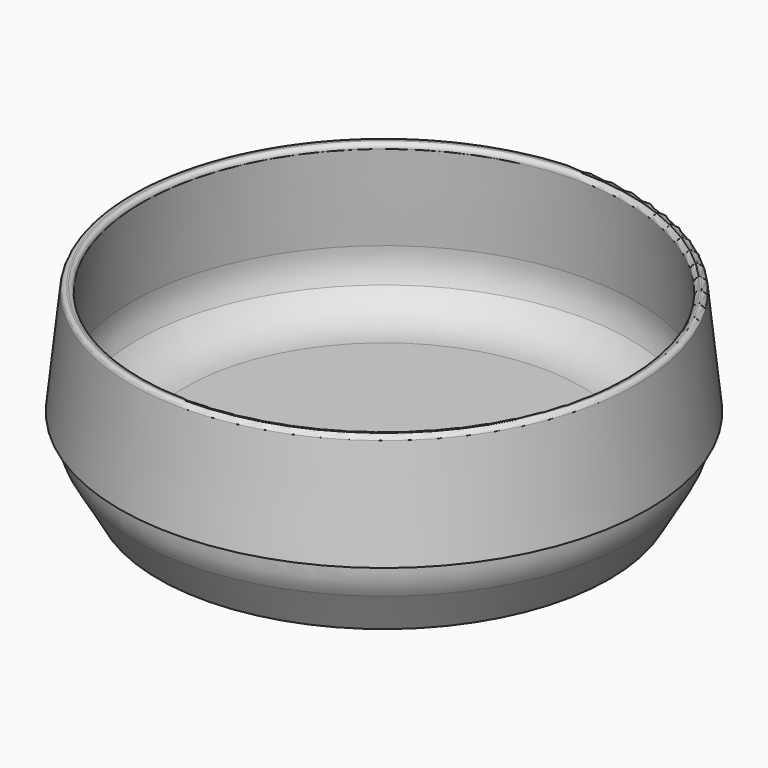
from build123d import *


with BuildPart() as f1:
    # F0 (on Front) → F1 (revolve)
    with BuildSketch(Plane.XZ):
        with BuildLine():
            Line((0, 9), (0, 6))
            Line((0, 6), (48.0762757361, 6))
            ThreePointArc((48.0762757361, 6), (54.1011105238, 4.8580394811), (59.2901725958, 1.5905721347))
            Line((59.2901725958, 1.5905721347), (61, 0))
            Line((61, 0), (64, 0))
            Line((64, 0), (70.7942286341, 11.7679491924))
            ThreePointArc((70.7942286341, 11.7679491924), (72.4389993416, 15.7387769415), (73, 20))
            Line((73, 20), (73, 21))
            Line((73, 21), (75, 21))
            Line((75, 21), (71.8251035914, 51.207121536))
            ThreePointArc((71.8251035914, 51.207121536), (71.3503416358, 52.0815242837), (70.3963381252, 52.3641129978))
            Line((70.3963381252, 52.3641129978), (69.998529367, 52.3223016124))
            ThreePointArc((69.998529367, 52.3223016124), (69.1241266194, 51.8475396568), (68.8415379053, 50.8935361462))
            Line((68.8415379053, 50.8935361462), (71.5285291448, 25.3285222078))
            ThreePointArc((71.5285291448, 25.3285222078), (71.3618845524, 20.7107973329), (69.9186394963, 16.3212418715))
            ThreePointArc((69.9186394963, 16.3212418715), (63.9897978344, 10.9452240093), (56.2264973081, 9))
            Line((56.2264973081, 9), (0, 9))
        make_face()
        with BuildLine():
            ThreePointArc((69.4129498502, 15.3755041594), (69.6734972068, 15.8442544407), (69.9186394963, 16.3212418715))
            ThreePointArc((69.9186394963, 16.3212418715), (70.209151584, 16.7720350372), (70.4848275573, 17.2320508076))
            Line((70.4848275573, 17.2320508076), (69.4129498502, 15.3755041594))
        make_face(mode=Mode.SUBTRACT)
        with BuildLine():
            ThreePointArc((70.4848275573, 17.2320508076), (70.209151584, 16.7720350372), (69.9186394963, 16.3212418715))
            ThreePointArc((69.9186394963, 16.3212418715), (69.6734972068, 15.8442544407), (69.4129498502, 15.3755041594))
            Line((69.4129498502, 15.3755041594), (70.4848275573, 17.2320508076))
        make_face()
    revolve(axis=Axis((0, 0, 25.603560768), (0, 0, 1)))


solid = f1.part
